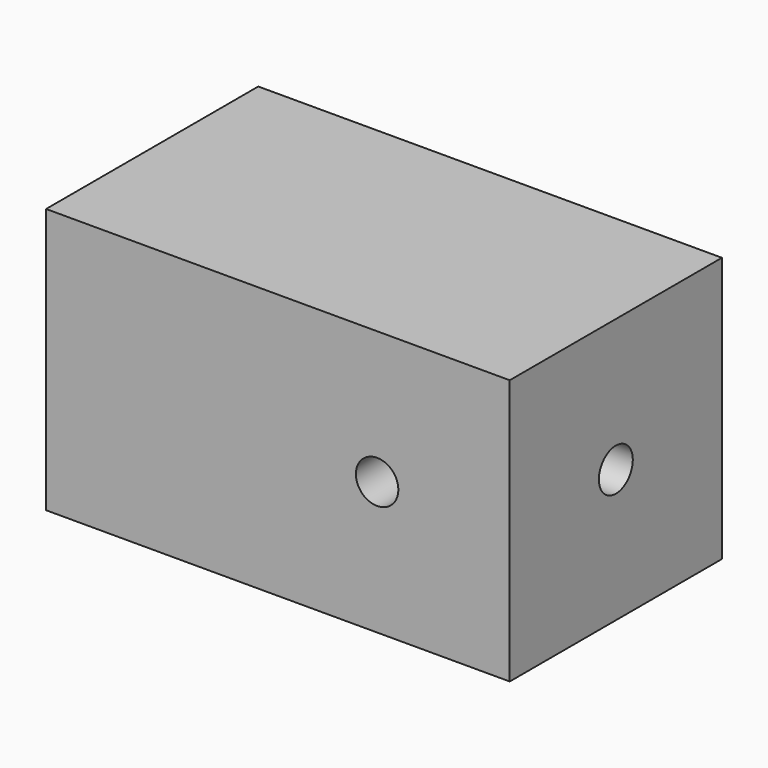
from build123d import *

# Parameters (mm, degrees)
SKETCH_W        = 21.85185
SKETCH_H        = 12.5
PAD_DEPTH       = 12.5
SKETCH001_R     = 1
POCKET_DEPTH    = 50
SKETCH002_R     = 1
POCKET001_DEPTH = 50


with BuildPart() as part:
    # Sketch → Pad (new body)
    with BuildSketch(Plane.XZ):
        with Locations((10.925925, 6.25)):
            Rectangle(SKETCH_W, SKETCH_H)
    extrude(amount=PAD_DEPTH)

    # Sketch001 → Pocket (cut)
    with BuildSketch(Plane.YZ):
        with Locations((-6.25, 6.25)):
            Circle(SKETCH001_R)
    extrude(amount=POCKET_DEPTH, mode=Mode.SUBTRACT)

    # Sketch002 → Pocket001 (cut)
    with BuildSketch(Plane.XZ):
        with Locations((15.60185, 6.25)):
            Circle(SKETCH002_R)
    extrude(amount=POCKET001_DEPTH, mode=Mode.SUBTRACT)


solid = part.part
